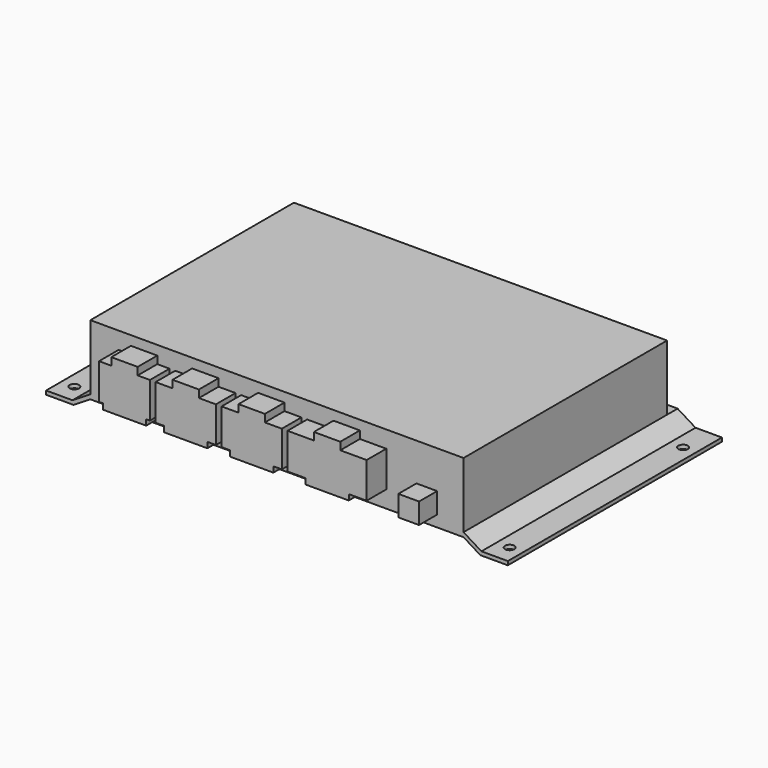
from build123d import *

# Parameters (mm, degrees)
F0_W      = 198
F0_H      = 135
F1_DEPTH  = 37
F3_DEPTH  = 135
F4_R      = 2.5
F5_DEPTH  = 25
F7_DEPTH  = 7
F9_DEPTH  = 13
F10_W     = 11
F10_H     = 11
F11_DEPTH = 12


with BuildPart() as f1:
    # F0 (on Top) → F1 (new body)
    with BuildSketch(Plane.XY):
        Rectangle(F0_W, F0_H)
    extrude(amount=F1_DEPTH)

    # F2 (on face) → F3 (join, through all)
    with BuildSketch(Plane.XZ.offset(67.5)):
        Polygon((-108.5, -3.5), (-122.5, -3.5), (-122.5, -5.5), (-107.933711, -5.5), (-99, 0), (-99, 2.348633), align=None)
        Polygon((99, 2.348633), (99, 0), (107.933711, -5.5), (122.5, -5.5), (122.5, -3.5), (108.5, -3.5), align=None)
    extrude(amount=-F3_DEPTH)

    # F4 (on face) → F5 (cut)
    with BuildSketch(Plane(origin=(0, 0, -5.5), x_dir=(1, 0, 0), z_dir=(0, 0, -1))):
        with Locations((-115.5, 57.5)):
            Circle(F4_R)
        with Locations((-115.5, -57.5)):
            Circle(F4_R)
        with Locations((115.5, -57.5)):
            Circle(F4_R)
        with Locations((115.5, 57.5)):
            Circle(F4_R)
    extrude(amount=-F5_DEPTH, mode=Mode.SUBTRACT)

    # F6 (on face) → F7 (join)
    with BuildSketch(Plane(origin=(0, 67.5, 0), x_dir=(-1, 0, 0), z_dir=(0, 1, 0))):
        Polygon((-122.5, -5.5), (-107.933711, -5.5), (-99, 0), (99, 0), (107.933711, -5.5), (122.5, -5.5), (122.5, -3.5), (108.5, -3.5), (99, 2.348633), (-99, 2.348633), (-108.5, -3.5), (-122.5, -3.5), align=None)
    extrude(amount=F7_DEPTH)

    # F8 (on face) → F9 (join)
    with BuildSketch(Plane.XZ.offset(67.5)):
        Polygon((-77.5, 28), (-84, 28), (-84, 9), (-82, 9), (-82, 6), (-59, 6), (-59, 9), (-57, 9), (-57, 28), (-63.5, 28), (-63.5, 32), (-77.5, 32), align=None)
        Polygon((-45, 28), (-54, 28), (-54, 9), (-49.5, 9), (-49.5, 6), (-26.5, 6), (-26.5, 9), (-22, 9), (-22, 28), (-31, 28), (-31, 32), (-45, 32), align=None)
        Polygon((-10, 28), (-19, 28), (-19, 9), (-14.5, 9), (-14.5, 6), (8.5, 6), (8.5, 9), (13, 9), (13, 28), (4, 28), (4, 32), (-10, 32), align=None)
        Polygon((30, 28), (16, 28), (16, 9), (25.5, 9), (25.5, 6), (48.5, 6), (48.5, 9), (58, 9), (58, 28), (44, 28), (44, 32), (30, 32), align=None)
    extrude(amount=F9_DEPTH)

    # F10 (on face) → F11 (join)
    with BuildSketch(Plane.XZ.offset(67.5)):
        with Locations((79.5, 11.5)):
            Rectangle(F10_W, F10_H)
    extrude(amount=F11_DEPTH)


solid = f1.part
